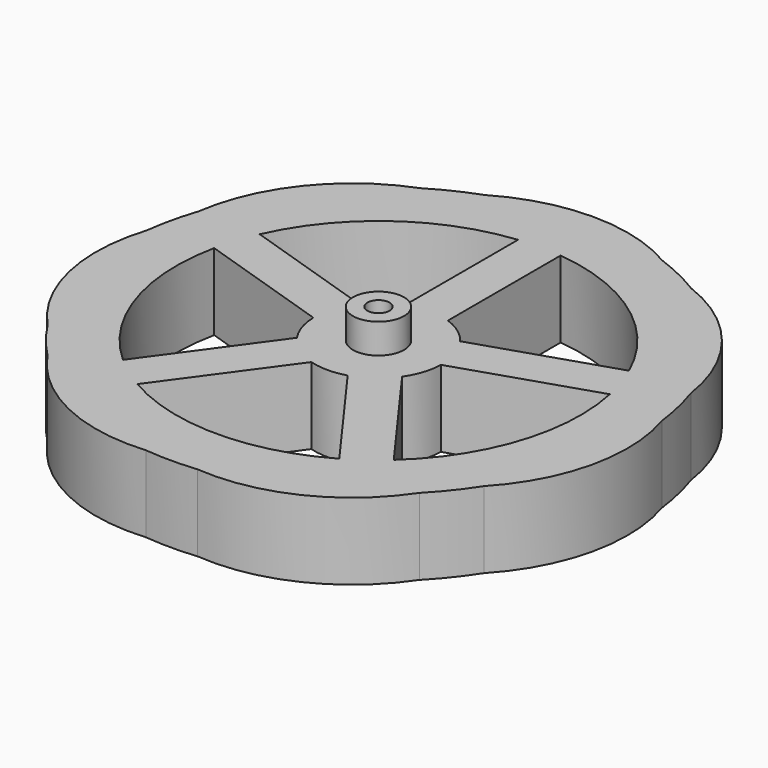
from build123d import *

# Parameters (mm, degrees)
F0_R     = 6
F0_R_2   = 2.6
F1_DEPTH = 25
F2_DEPTH = 18


with BuildPart() as f1:
    # F0 (on Top) → F1 (new body)
    with BuildSketch(Plane.XY):
        with Locations((-2.922279, 4.134713)):
            Circle(F0_R)
        with Locations((-2.922279, 4.134713)):
            Circle(F0_R_2, mode=Mode.SUBTRACT)
    extrude(amount=F1_DEPTH)

    # F0 (on Top) → F2 (join)
    with BuildSketch(Plane.XY):
        with BuildLine():
            ThreePointArc((-34.729826, 56.185457), (-52.177662, 43.41457), (-60.745847, 23.562398))
            ThreePointArc((-60.745847, 23.562398), (-62.392882, 17.70849), (-63.448871, 11.719679))
            ThreePointArc((-63.448871, 11.719679), (-64.342738, -9.884106), (-54.16386, -28.960609))
            ThreePointArc((-54.16386, -28.960609), (-50.613999, -33.898165), (-46.590157, -38.457733))
            ThreePointArc((-46.590157, -38.457733), (-30.256955, -52.626326), (-8.995918, -56.562165))
            ThreePointArc((-8.995918, -56.562165), (-2.922279, -56.865287), (3.15136, -56.562165))
            ThreePointArc((3.15136, -56.562165), (24.412397, -52.626326), (40.745599, -38.457733))
            ThreePointArc((40.745599, -38.457733), (44.769441, -33.898165), (48.319302, -28.960609))
            ThreePointArc((48.319302, -28.960609), (58.498179, -9.884106), (57.604313, 11.719679))
            ThreePointArc((57.604313, 11.719679), (56.548324, 17.70849), (54.901289, 23.562398))
            ThreePointArc((54.901289, 23.562398), (46.333104, 43.41457), (28.885268, 56.185457))
            ThreePointArc((28.885268, 56.185457), (23.544629, 59.093814), (17.94095, 61.455963))
            ThreePointArc((17.94095, 61.455963), (-2.922279, 67.134713), (-23.785508, 61.455963))
            ThreePointArc((-23.785508, 61.455963), (-29.389187, 59.093814), (-34.729826, 56.185457))
        make_face()
        with BuildLine():
            Line((-26.641882, -37.019029), (-7.189733, -10.245442))
            ThreePointArc((-7.189733, -10.245442), (-2.922279, -10.865287), (1.345175, -10.245442))
            Line((1.345175, -10.245442), (20.797324, -37.019029))
            ThreePointArc((20.797324, -37.019029), (-2.922279, -43.365287), (-26.641882, -37.019029))
        make_face(mode=Mode.SUBTRACT)
        with BuildLine():
            Line((-49.391573, 13.976191), (-17.917334, 3.74959))
            ThreePointArc((-17.917334, 3.74959), (-17.188127, -0.500542), (-15.279903, -4.367589))
            Line((-15.279903, -4.367589), (-34.732052, -31.141176))
            ThreePointArc((-34.732052, -31.141176), (-48.097464, -10.543594), (-49.391573, 13.976191))
        make_face(mode=Mode.SUBTRACT)
        with Locations((-2.922279, 4.134713)):
            Circle(F0_R, mode=Mode.SUBTRACT)
        with BuildLine():
            Line((28.887494, -31.141176), (9.435345, -4.367589))
            ThreePointArc((9.435345, -4.367589), (11.343569, -0.500542), (12.072776, 3.74959))
            Line((12.072776, 3.74959), (43.547015, 13.976191))
            ThreePointArc((43.547015, 13.976191), (42.252905, -10.543594), (28.887494, -31.141176))
        make_face(mode=Mode.SUBTRACT)
        with BuildLine():
            ThreePointArc((-46.301403, 23.486756), (-30.842079, 42.56302), (-7.922279, 51.370822))
            Line((-7.922279, 51.370822), (-7.922279, 18.276848))
            ThreePointArc((-7.922279, 18.276848), (-11.739058, 16.269968), (-14.827164, 13.260156))
            Line((-14.827164, 13.260156), (-46.301403, 23.486756))
        make_face(mode=Mode.SUBTRACT)
        with BuildLine():
            ThreePointArc((8.982606, 13.260156), (5.8945, 16.269968), (2.077721, 18.276848))
            Line((2.077721, 18.276848), (2.077721, 51.370822))
            ThreePointArc((2.077721, 51.370822), (24.99752, 42.56302), (40.456845, 23.486756))
            Line((40.456845, 23.486756), (8.982606, 13.260156))
        make_face(mode=Mode.SUBTRACT)
    extrude(amount=F2_DEPTH)


solid = f1.part
